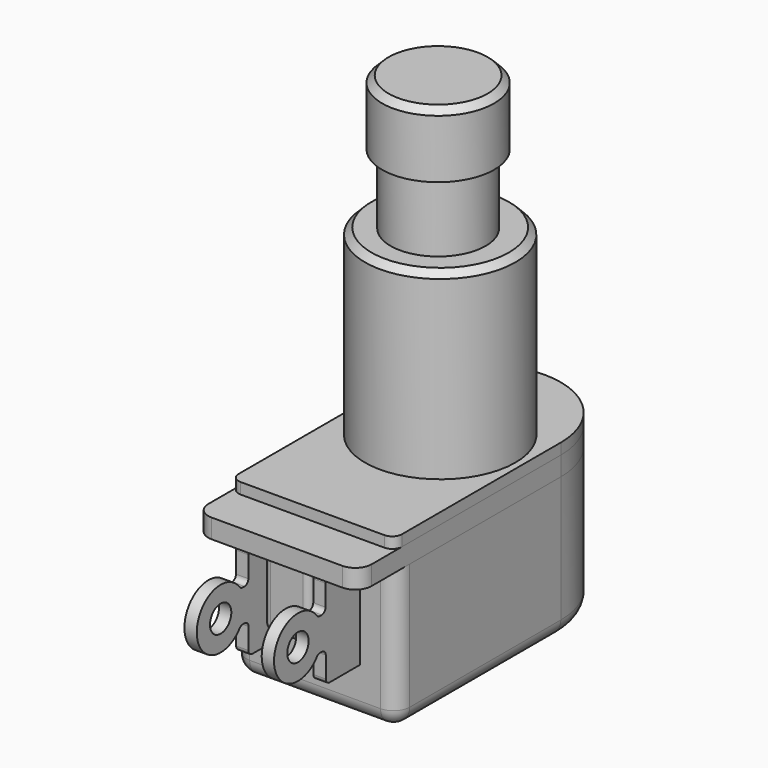
from build123d import *

# Parameters (mm, degrees)
F0_R           = 4.3815
F1_DEPTH       = 5.08
F2_R           = 3.7211
F3_DEPTH       = 5.461
F4_R           = 5.8801
F5_DEPTH       = 14.3002
F6_SIZE        = 0.508
F6_2_SIZE      = 0.508
F8_DEPTH       = 0.8636
F10_DEPTH      = 1.4986
F12_DEPTH      = 11.1252
F13_R          = 1.27
F14_W          = 2.794
F14_H          = 5.588
F15_DEPTH      = 1.778
F15_DEPTH_BACK = 1.778
F16_R          = 0.508
F18_R          = 1.0414
F19_DEPTH      = 0.9652
F21_R          = 0.381
F21_2_R        = 0.381


with BuildPart() as f1:
    # F0 (on Top) → F1 (new body)
    with BuildSketch(Plane.XY):
        Circle(F0_R)
    extrude(amount=F1_DEPTH)

    # F2 (on face) → F3 (join)
    with BuildSketch(Plane(origin=(0, 0, 0), x_dir=(1, 0, 0), z_dir=(0, 0, -1))):
        Circle(F2_R)
    extrude(amount=F3_DEPTH)

    # F6
    f6_edges = [f1.edges().sort_by_distance(p)[0] for p in [
        (-4.3815, 0, 5.08),
    ]]
    chamfer(f6_edges, length=F6_SIZE)


with BuildPart() as f5:
    # F4 (on face) → F5 (new body)
    with BuildSketch(Plane(origin=(0, 0, -5.461), x_dir=(1, 0, 0), z_dir=(0, 0, -1))):
        with Locations((0, -0.1997926142)):
            Circle(F4_R)
    extrude(amount=F5_DEPTH)

    # F6#2
    f6_2_edges = [f5.edges().sort_by_distance(p)[0] for p in [
        (-5.8801, 0.199793, -5.461),
    ]]
    chamfer(f6_2_edges, length=F6_2_SIZE)


with BuildPart() as f8:
    # F7 (on face) → F8 (new body)
    with BuildSketch(Plane(origin=(0, 0, -19.7612), x_dir=(1, 0, 0), z_dir=(0, 0, -1))):
        with BuildLine():
            Line((5.6261, 12.2843073858), (-5.6261, 12.2843073858))
            ThreePointArc((-5.6261, 12.2843073858), (-6.1649153673, 12.061122753), (-6.3881, 11.5223073858))
            Line((-6.3881, 11.5223073858), (-6.3881, -4.0097926142))
            ThreePointArc((-6.3881, -4.0097926142), (0, -10.3978926142), (6.3881, -4.0097926142))
            Line((6.3881, -4.0097926142), (6.3881, 11.5223073858))
            ThreePointArc((6.3881, 11.5223073858), (6.1649153673, 12.061122753), (5.6261, 12.2843073858))
        make_face()
    extrude(amount=F8_DEPTH)


with BuildPart() as f10:
    # F9 (on face) → F10 (new body)
    with BuildSketch(Plane(origin=(0, 0, -20.6248), x_dir=(1, 0, 0), z_dir=(0, 0, -1))):
        with BuildLine():
            Line((-6.3881, 11.5223073858), (-6.3881, -4.0097926142))
            ThreePointArc((-6.3881, -4.0097926142), (0, -10.3978926142), (6.3881, -4.0097926142))
            Line((6.3881, -4.0097926142), (6.3881, 11.5223073858))
            Line((6.3881, 11.5223073858), (6.3881, 14.4941073858))
            ThreePointArc((6.3881, 14.4941073858), (6.0161256121, 15.3921329979), (5.1181, 15.7641073858))
            Line((5.1181, 15.7641073858), (-5.1181, 15.7641073858))
            ThreePointArc((-5.1181, 15.7641073858), (-6.0161256121, 15.3921329979), (-6.3881, 14.4941073858))
            Line((-6.3881, 14.4941073858), (-6.3881, 11.5223073858))
        make_face()
    extrude(amount=F10_DEPTH)


with BuildPart() as f12:
    # F11 (on face) → F12 (new body)
    with BuildSketch(Plane(origin=(0, 0, -22.1234), x_dir=(1, 0, 0), z_dir=(0, 0, -1))):
        with BuildLine():
            Line((-6.3881, 10.7603073858), (-6.3881, -4.0097926142))
            ThreePointArc((-6.3881, -4.0097926142), (0, -10.3978926142), (6.3881, -4.0097926142))
            Line((6.3881, -4.0097926142), (6.3881, 10.7603073858))
            ThreePointArc((6.3881, 10.7603073858), (6.0161256121, 11.6583329979), (5.1181, 12.0303073858))
            Line((5.1181, 12.0303073858), (-5.1181, 12.0303073858))
            ThreePointArc((-5.1181, 12.0303073858), (-6.0161256121, 11.6583329979), (-6.3881, 10.7603073858))
        make_face()
    extrude(amount=F12_DEPTH)

    # F13
    f13_edges = [f12.edges().sort_by_distance(p)[0] for p in [
        (-6.3881, -3.375257, -33.2486),
    ]]
    fillet(f13_edges, radius=F13_R)

    # F14 (on Right) → F15 (join, two sides)
    with BuildSketch(Plane.YZ) as f15_sk:
        with Locations((-13.4273073858, -24.9174)):
            Rectangle(F14_W, F14_H)
    extrude(amount=F15_DEPTH)
    extrude(f15_sk.sketch, amount=-F15_DEPTH_BACK)

    # F16
    f16_edges = [f12.edges().sort_by_distance(p)[0] for p in [
        (0, -14.824307, -27.7114),
        (-1.778, -14.824307, -24.9174),
        (1.778, -14.824307, -24.9174),
        (-1.778, -13.427307, -27.7114),
        (1.778, -13.427307, -27.7114),
    ]]
    fillet(f16_edges, radius=F16_R)


with BuildPart() as f19:
    # F18 (on offset) → F19 (new body)
    with BuildSketch(Plane.YZ.offset(2.54)):
        with BuildLine():
            Line((-12.0303073858, -29.4894), (-12.0303073858, -22.1234))
            Line((-12.0303073858, -22.1234), (-15.3846076557, -22.1234))
            Line((-15.3846076557, -22.1234), (-15.3846076557, -24.5364))
            Line((-15.3846076557, -24.5364), (-16.1289302219, -24.5364))
            ThreePointArc((-16.1289302219, -24.5364), (-20.4272944549, -25.8064), (-16.1289302219, -27.0764))
            Line((-16.1289302219, -27.0764), (-15.3669302219, -27.0764))
            Line((-15.3669302219, -27.0764), (-15.3669302219, -29.4894))
            Line((-15.3669302219, -29.4894), (-12.0303073858, -29.4894))
        make_face()
        with Locations((-18.0904944549, -25.8064)):
            Circle(F18_R, mode=Mode.SUBTRACT)
    extrude(amount=F19_DEPTH)


with BuildPart() as f20_1:
    # F20: instance of F19
    add(f19.part.mirror(Plane.YZ))

    # F21#2
    f21_2_edges = [f20_1.edges().sort_by_distance(p)[0] for p in [
        (-3.0226, -15.36693, -29.4894),
        (-3.0226, -15.36693, -27.0764),
        (-3.0226, -16.12893, -27.0764),
        (-3.0226, -15.384608, -22.1234),
        (-3.0226, -15.384608, -24.5364),
        (-3.0226, -16.12893, -24.5364),
    ]]
    fillet(f21_2_edges, radius=F21_2_R)


with BuildPart() as f19_1:
    add(f19.part)

    # F21
    f21_edges = [f19_1.edges().sort_by_distance(p)[0] for p in [
        (3.0226, -15.36693, -29.4894),
        (3.0226, -15.36693, -27.0764),
        (3.0226, -16.12893, -27.0764),
        (3.0226, -15.384608, -24.5364),
        (3.0226, -16.12893, -24.5364),
        (3.0226, -15.384608, -22.1234),
    ]]
    fillet(f21_edges, radius=F21_R)


solid = Compound([f1.part, f5.part, f8.part, f10.part, f12.part, f20_1.part, f19_1.part])
